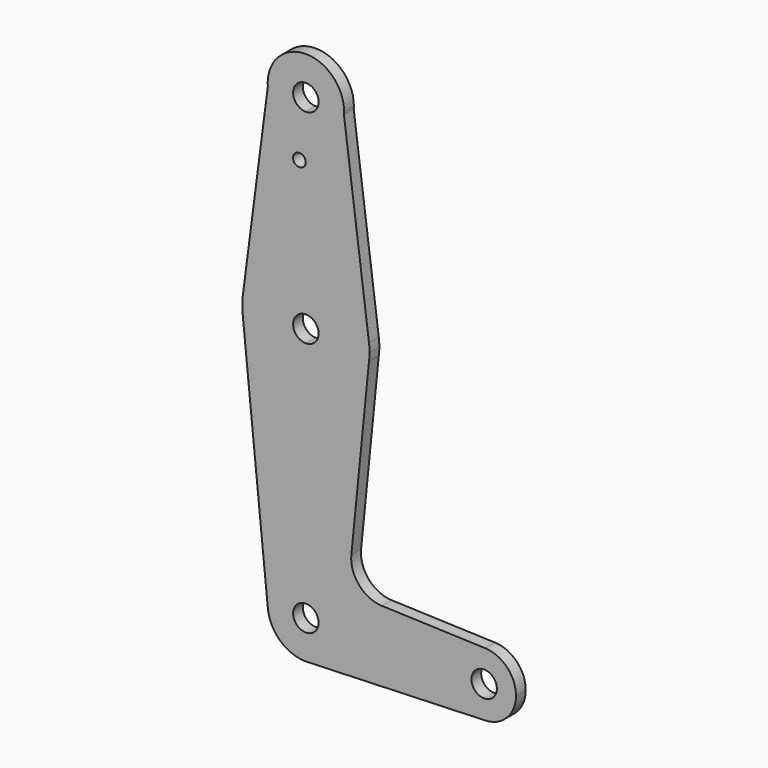
from build123d import *

# Parameters (mm, degrees)
F0_R     = 1.5875
F1_DEPTH = 3.048


with BuildPart() as f1:
    # F0 (on Front) → F1 (new body)
    with BuildSketch(Plane.XZ):
        with BuildLine():
            Line((-9.4928939805, 47.1102694232), (-15.7420552657, -0.8726741633))
            ThreePointArc((-15.7420552657, -0.8726741633), (-10.4754163697, 9.0052971646), (0, 12.9521255997))
            Line((0, 12.9521255997), (0, 33.6023255997))
            Line((0, 33.6023255997), (0, 38.366671288))
            ThreePointArc((0, 38.366671288), (-6.4530137238, 40.8856568089), (-9.4928939805, 47.1102694232))
        make_face()
        with Locations((-1.6126136881, 33.6023255997)):
            Circle(F0_R, mode=Mode.SUBTRACT)
        with BuildLine():
            Line((0, 33.6023255997), (0, 12.9521255997))
            ThreePointArc((0, 12.9521255997), (10.4765085904, 9.004337879), (15.742430476, -0.8755572028))
            Line((15.742430476, -0.8755572028), (9.4962991944, 47.1528028211))
            ThreePointArc((9.4962991944, 47.1528028211), (6.4686900858, 40.9001282842), (0, 38.366671288))
            Line((0, 38.366671288), (0, 33.6023255997))
        make_face()
        with BuildLine():
            ThreePointArc((9.525, 47.891671288), (-0.3910305841, 57.4086413984), (-9.4928939805, 47.1102694232))
            ThreePointArc((-9.4928939805, 47.1102694232), (-6.4530137238, 40.8856568089), (0, 38.366671288))
            ThreePointArc((0, 38.366671288), (6.4686900858, 40.9001282842), (9.4962991944, 47.1528028211))
            ThreePointArc((9.4962991944, 47.1528028211), (9.517822094, 47.5219584442), (9.525, 47.891671288))
        make_face()
        with BuildLine():
            ThreePointArc((3.175, 47.891671288), (2.2450640303, 45.6466072577), (0, 44.716671288))
            ThreePointArc((0, 44.716671288), (-2.2450640303, 50.1367353183), (3.175, 47.891671288))
        make_face(mode=Mode.SUBTRACT)
        with BuildLine():
            ThreePointArc((-15.7420552657, -4.9730746374), (-10.4754163697, -14.8510459652), (0, -18.7978744003))
            Line((0, -18.7978744003), (0, -6.0978744003))
            ThreePointArc((0, -6.0978744003), (-3.175, -2.9228744003), (0, 0.2521255997))
            Line((0, 0.2521255997), (0, 12.9521255997))
            ThreePointArc((0, 12.9521255997), (-10.4754163697, 9.0052971646), (-15.7420552657, -0.8726741633))
            ThreePointArc((-15.7420552657, -0.8726741633), (-15.875, -2.9228744003), (-15.7420552657, -4.9730746374))
        make_face()
        with BuildLine():
            Line((0, -6.0978744003), (0, -18.7978744003))
            ThreePointArc((0, -18.7978744003), (10.4765085904, -14.8500866796), (15.742430476, -4.9701915978))
            ThreePointArc((15.742430476, -4.9701915978), (15.8418229508, -3.9486768162), (15.875, -2.9228744003))
            ThreePointArc((15.875, -2.9228744003), (15.8418229508, -1.8970719844), (15.742430476, -0.8755572028))
            ThreePointArc((15.742430476, -0.8755572028), (10.4765085904, 9.004337879), (0, 12.9521255997))
            Line((0, 12.9521255997), (0, 0.2521255997))
            ThreePointArc((0, 0.2521255997), (2.2450640303, -0.6778103701), (3.175, -2.9228744003))
            ThreePointArc((3.175, -2.9228744003), (2.2450640303, -5.1679384306), (0, -6.0978744003))
        make_face()
        with BuildLine():
            Line((0, -18.7978744003), (0, -56.883328712))
            ThreePointArc((0, -56.883328712), (6.7351920908, -59.6731366212), (9.525, -66.408328712))
            Line((9.525, -66.408328712), (36.5125, -66.408328712))
            ThreePointArc((36.5125, -66.408328712), (38.9380895153, -60.6966959281), (44.7324052746, -58.4758540974))
            Line((44.7324052746, -58.4758540974), (18.9667525096, -57.5585670468))
            ThreePointArc((18.9667525096, -57.5585670468), (13.2598492652, -54.841062549), (11.3391934267, -48.8190482277))
            Line((11.3391934267, -48.8190482277), (15.742430476, -4.9701915978))
            ThreePointArc((15.742430476, -4.9701915978), (10.4765085904, -14.8500866796), (0, -18.7978744003))
        make_face()
        with BuildLine():
            Line((0, -56.883328712), (0, -63.233328712))
            ThreePointArc((0, -63.233328712), (2.2450640303, -64.1632646817), (3.175, -66.408328712))
            Line((3.175, -66.408328712), (9.525, -66.408328712))
            ThreePointArc((9.525, -66.408328712), (6.7351920908, -59.6731366212), (0, -56.883328712))
        make_face()
        with BuildLine():
            ThreePointArc((3.175, -66.408328712), (-2.2450640303, -68.6533927423), (0, -63.233328712))
            Line((0, -63.233328712), (0, -56.883328712))
            ThreePointArc((0, -56.883328712), (-7.0636550202, -60.0184615181), (-9.4773370042, -67.3600157974))
            ThreePointArc((-9.4773370042, -67.3600157974), (-6.3898671939, -73.4719837322), (0, -75.933328712))
            Line((0, -75.933328712), (0.6773435479, -75.909214498))
            ThreePointArc((0.6773435479, -75.909214498), (6.9705567315, -72.8996278002), (9.525, -66.408328712))
            Line((9.525, -66.408328712), (3.175, -66.408328712))
        make_face()
        with BuildLine():
            ThreePointArc((-9.4773370042, -67.3600157974), (-7.0636550202, -60.0184615181), (0, -56.883328712))
            Line((0, -56.883328712), (0, -18.7978744003))
            ThreePointArc((0, -18.7978744003), (-10.4754163697, -14.8510459652), (-15.7420552657, -4.9730746374))
            Line((-15.7420552657, -4.9730746374), (-9.4773370042, -67.3600157974))
        make_face()
        with BuildLine():
            Line((36.5125, -66.408328712), (9.525, -66.408328712))
            ThreePointArc((9.525, -66.408328712), (6.9705567315, -72.8996278002), (0.6773435479, -75.909214498))
            Line((0.6773435479, -75.909214498), (44.7324052746, -74.3408033266))
            ThreePointArc((44.7324052746, -74.3408033266), (38.9380895153, -72.1199614959), (36.5125, -66.408328712))
        make_face()
        with BuildLine():
            ThreePointArc((44.7324052746, -58.4758540974), (38.9380895153, -60.6966959281), (36.5125, -66.408328712))
            ThreePointArc((36.5125, -66.408328712), (38.9380895153, -72.1199614959), (44.7324052746, -74.3408033266))
            ThreePointArc((44.7324052746, -74.3408033266), (50.1616327839, -71.9202391967), (52.3875, -66.408328712))
            ThreePointArc((52.3875, -66.408328712), (50.1616327839, -60.8964182273), (44.7324052746, -58.4758540974))
        make_face()
        with BuildLine():
            ThreePointArc((47.625, -66.408328712), (44.45, -69.583328712), (41.275, -66.408328712))
            ThreePointArc((41.275, -66.408328712), (44.45, -63.233328712), (47.625, -66.408328712))
        make_face(mode=Mode.SUBTRACT)
    extrude(amount=F1_DEPTH)


solid = f1.part
